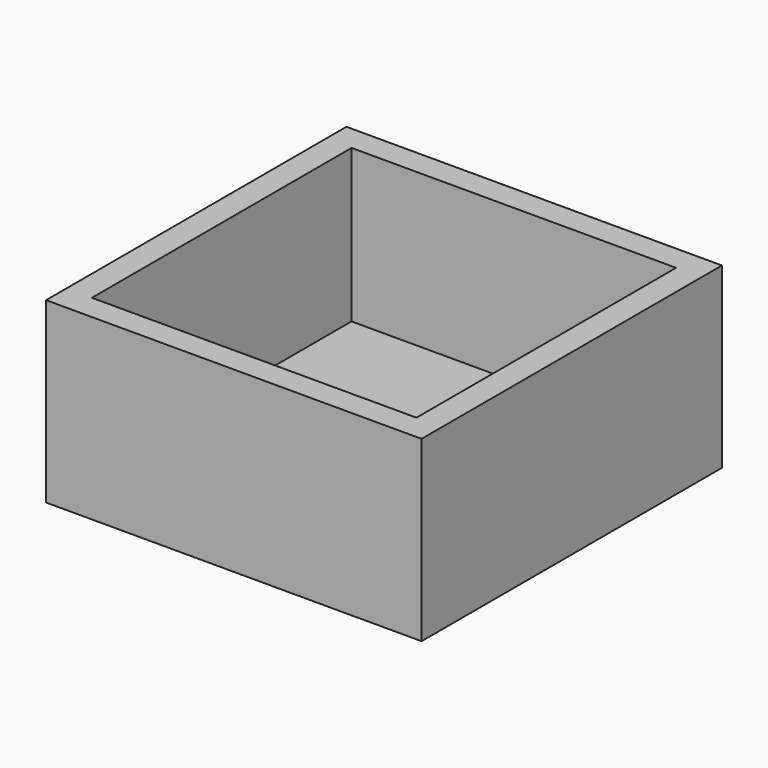
from build123d import *

# Parameters (mm, degrees)
BOX001_W     = 25.5
BOX001_H     = 25.5
BOX001_DEPTH = 12
BOX_W        = 29.5
BOX_H        = 29.5
BOX_DEPTH    = 14


with BuildPart() as cube001:
    # Box001 → Box001 (new body)
    with BuildSketch(Plane(origin=(2, 2, 2), x_dir=(1, 0, 0), z_dir=(0, 0, 1))):
        with Locations((12.75, 12.75)):
            Rectangle(BOX001_W, BOX001_H)
    extrude(amount=BOX001_DEPTH)


with BuildPart() as cut:
    # Box → Box (new body)
    with BuildSketch(Plane.XY):
        with Locations((14.75, 14.75)):
            Rectangle(BOX_W, BOX_H)
    extrude(amount=BOX_DEPTH)

    # Cut: cut Cube001
    add(cube001.part, mode=Mode.SUBTRACT)


solid = cut.part
